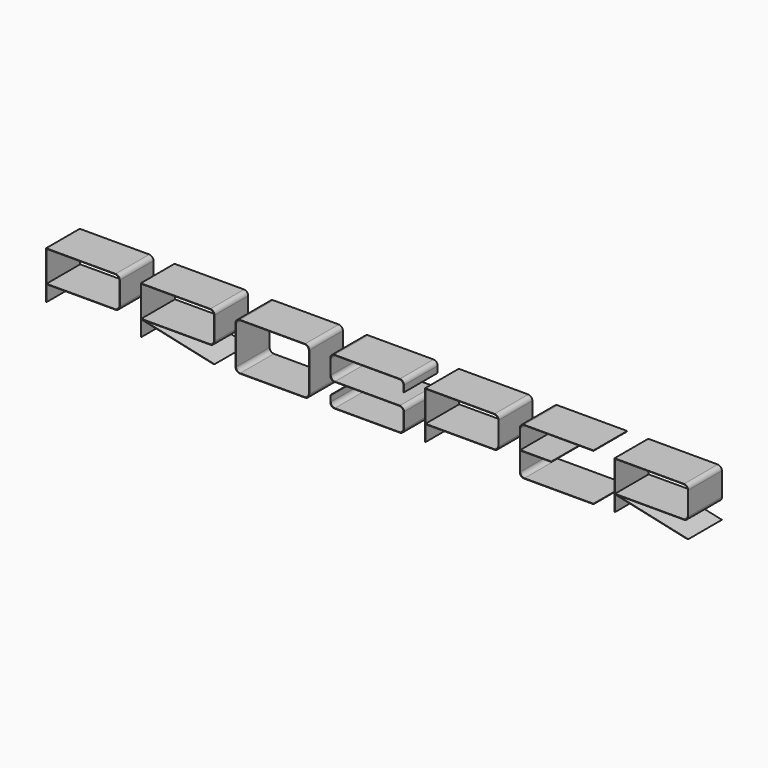
from build123d import *

# Parameters (mm, degrees)
F0_W     = 0.254
F0_H     = 9.525
F0_H_2   = 0.254
F0_W_2   = 43.942
F0_H_3   = 18.542
F1_DEPTH = 25.4
F0_W_3   = 44.45
F0_H_4   = 28.575
F0_H_5   = 28.067
F0_H_6   = 0.127
F0_W_4   = 18.796
F2_R     = 2.54
F2_2_R   = 2.54
F2_3_R   = 2.54
F2_4_R   = 2.54
F2_5_R   = 2.54
F2_6_R   = 2.54
F2_7_R   = 2.54


with BuildPart() as f1:
    # F0 (on Front) → F1 (new body)
    with BuildSketch(Plane.XZ):
        with Locations((50.927, 4.7625)):
            Rectangle(F0_W, F0_H)
        with Locations((50.927, 9.652)):
            Rectangle(F0_W, F0_H_2)
        Polygon((50.8, 28.575), (50.8, 9.779), (51.054, 9.779), (51.054, 9.525), (95.25, 9.525), (95.25, 28.575), align=None)
        with Locations((73.025, 19.05)):
            Rectangle(F0_W_2, F0_H_3, mode=Mode.SUBTRACT)
    extrude(amount=F1_DEPTH)

    # F2#2
    f2_2_edges = [f1.edges().sort_by_distance(p)[0] for p in [
        (94.996, -12.7, 28.321),
        (94.996, -12.7, 9.779),
        (95.25, -12.7, 28.575),
        (95.25, -12.7, 9.525),
    ]]
    fillet(f2_2_edges, radius=F2_2_R)


with BuildPart() as f1b:
    # F0 (on Front) → F1, piece 2 (new body)
    with BuildSketch(Plane.XZ):
        Polygon((107.95, 9.525), (107.95, 0), (108.204, 0), (108.204, 9.4690852478), align=None)
        with Locations((108.077, 9.652)):
            Rectangle(F0_W, F0_H_2)
        Polygon((108.204, 9.525), (107.95, 9.525), (108.204, 9.4690852478), align=None)
        Polygon((107.95, 28.575), (107.95, 9.779), (108.204, 9.779), (108.204, 9.525), (109.131454517, 9.525), (152.4, 9.525), (152.4, 28.575), align=None)
        with Locations((130.175, 19.05)):
            Rectangle(F0_W_2, F0_H_3, mode=Mode.SUBTRACT)
        Polygon((109.131454517, 9.525), (108.204, 9.525), (108.204, 9.4690852478), (151.218545483, 0), (152.4, 0), align=None)
    extrude(amount=F1_DEPTH)

    # F2
    f2_edges = [f1b.edges().sort_by_distance(p)[0] for p in [
        (152.4, -12.7, 9.525),
        (151.218545, -12.7, 0),
        (152.4, -12.7, 28.575),
        (152.146, -12.7, 28.321),
        (152.146, -12.7, 9.779),
    ]]
    fillet(f2_edges, radius=F2_R)


with BuildPart() as f1c:
    # F0 (on Front) → F1, piece 3 (new body)
    with BuildSketch(Plane.XZ):
        with Locations((187.325, 14.2875)):
            Rectangle(F0_W_3, F0_H_4)
        with Locations((187.325, 14.2875)):
            Rectangle(F0_W_2, F0_H_5, mode=Mode.SUBTRACT)
    extrude(amount=F1_DEPTH)

    # F2#3
    f2_3_edges = [f1c.edges().sort_by_distance(p)[0] for p in [
        (209.296, -12.7, 0.254),
        (165.354, -12.7, 0.254),
        (209.55, -12.7, 28.575),
        (209.55, -12.7, 0),
        (165.1, -12.7, 28.575),
        (165.354, -12.7, 28.321),
        (165.1, -12.7, 0),
        (209.296, -12.7, 28.321),
    ]]
    fillet(f2_3_edges, radius=F2_3_R)


with BuildPart() as f1d:
    # F0 (on Front) → F1, piece 4 (new body)
    with BuildSketch(Plane.XZ):
        Polygon((222.504, 6.35), (222.25, 6.35), (222.25, 0), (266.7, 0), (266.7, 14.2875), (222.25, 14.2875), (222.25, 14.1605), (266.446, 14.1605), (266.446, 0.254), (222.504, 0.254), align=None)
        Polygon((222.25, 14.2875), (266.7, 14.2875), (266.7, 14.4145), (222.504, 14.4145), (222.504, 28.321), (266.446, 28.321), (266.446, 22.225), (266.7, 22.225), (266.7, 28.575), (222.25, 28.575), align=None)
    extrude(amount=F1_DEPTH)

    # F2#4
    f2_4_edges = [f1d.edges().sort_by_distance(p)[0] for p in [
        (222.504, -12.7, 0.254),
        (266.446, -12.7, 14.1605),
        (266.446, -12.7, 28.321),
        (266.446, -12.7, 0.254),
        (222.504, -12.7, 14.4145),
        (222.504, -12.7, 28.321),
        (222.25, -12.7, 28.575),
        (222.25, -12.7, 14.1605),
        (222.25, -12.7, 0),
        (266.7, -12.7, 14.4145),
        (266.7, -12.7, 0),
        (266.7, -12.7, 28.575),
    ]]
    fillet(f2_4_edges, radius=F2_4_R)


with BuildPart() as f1e:
    # F0 (on Front) → F1, piece 5 (new body)
    with BuildSketch(Plane.XZ):
        with Locations((279.527, 4.7625)):
            Rectangle(F0_W, F0_H)
        with Locations((279.527, 9.652)):
            Rectangle(F0_W, F0_H_2)
        Polygon((279.4, 28.575), (279.4, 9.779), (279.654, 9.779), (279.654, 9.525), (323.85, 9.525), (323.85, 28.575), align=None)
        with Locations((301.625, 19.05)):
            Rectangle(F0_W_2, F0_H_3, mode=Mode.SUBTRACT)
    extrude(amount=F1_DEPTH)

    # F2#5
    f2_5_edges = [f1e.edges().sort_by_distance(p)[0] for p in [
        (323.596, -12.7, 9.779),
        (323.596, -12.7, 28.321),
        (323.85, -12.7, 9.525),
        (323.85, -12.7, 28.575),
    ]]
    fillet(f2_5_edges, radius=F2_5_R)


with BuildPart() as f1f:
    # F0 (on Front) → F1, piece 6 (new body)
    with BuildSketch(Plane.XZ):
        Polygon((381, 28.575), (336.55, 28.575), (336.55, 14.4145), (336.804, 14.4145), (336.804, 28.321), (381, 28.321), align=None)
        with Locations((336.677, 14.351)):
            Rectangle(F0_W, F0_H_6)
        with Locations((336.677, 14.224)):
            Rectangle(F0_W, F0_H_6)
        with Locations((346.202, 14.351)):
            Rectangle(F0_W_4, F0_H_6)
        Polygon((336.804, 14.1605), (336.55, 14.1605), (336.55, 0), (381, 0), (381, 0.254), (336.804, 0.254), align=None)
        with Locations((346.202, 14.224)):
            Rectangle(F0_W_4, F0_H_6)
    extrude(amount=F1_DEPTH)

    # F2#6
    f2_6_edges = [f1f.edges().sort_by_distance(p)[0] for p in [
        (336.804, -12.7, 0.254),
        (336.55, -12.7, 28.575),
        (336.804, -12.7, 28.321),
        (336.55, -12.7, 0),
    ]]
    fillet(f2_6_edges, radius=F2_6_R)


with BuildPart() as f1g:
    # F0 (on Front) → F1, piece 7 (new body)
    with BuildSketch(Plane.XZ):
        Polygon((393.7, 9.525), (393.7, 0), (393.954, 0), (393.954, 9.4690852478), align=None)
        with Locations((393.827, 9.652)):
            Rectangle(F0_W, F0_H_2)
        Polygon((393.954, 9.525), (393.7, 9.525), (393.954, 9.4690852478), align=None)
        Polygon((393.7, 28.575), (393.7, 9.779), (393.954, 9.779), (393.954, 9.525), (394.881454517, 9.525), (438.15, 9.525), (438.15, 28.575), align=None)
        with Locations((415.925, 19.05)):
            Rectangle(F0_W_2, F0_H_3, mode=Mode.SUBTRACT)
        Polygon((394.881454517, 9.525), (393.954, 9.525), (393.954, 9.4690852478), (436.968545483, 0), (438.15, 0), align=None)
    extrude(amount=F1_DEPTH)

    # F2#7
    f2_7_edges = [f1g.edges().sort_by_distance(p)[0] for p in [
        (438.15, -12.7, 28.575),
        (437.896, -12.7, 28.321),
        (438.15, -12.7, 9.525),
        (436.968545, -12.7, 0),
        (437.896, -12.7, 9.779),
    ]]
    fillet(f2_7_edges, radius=F2_7_R)


solid = Compound([f1.part, f1b.part, f1c.part, f1d.part, f1e.part, f1f.part, f1g.part])
